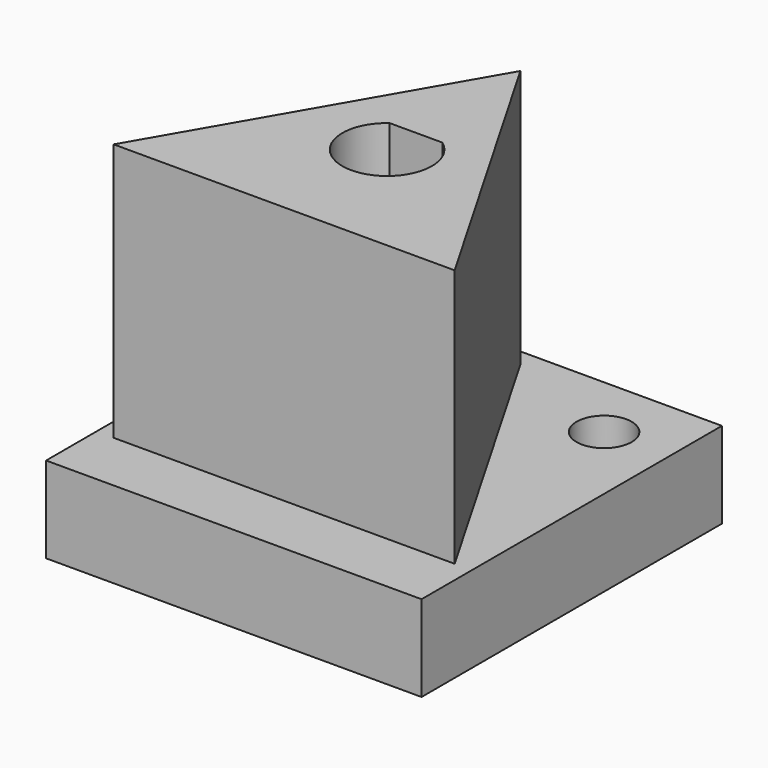
from build123d import *

# Parameters (mm, degrees)
SKETCH_W        = 21.8
SKETCH_H        = 21.8
PAD_DEPTH       = 5
PAD001_DEPTH    = 15
SKETCH002_R     = 1.6
POCKET_DEPTH    = 20.001
POCKET001_DEPTH = 3
POCKET002_DEPTH = 15


with BuildPart() as part:
    # Sketch → Pad (new body)
    with BuildSketch(Plane.XY):
        with Locations((10.9, 10.9)):
            Rectangle(SKETCH_W, SKETCH_H)
    extrude(amount=PAD_DEPTH)

    # Sketch001 (on Face6 of Pad) → Pad001 (join)
    with BuildSketch(Plane.XY.offset(5)):
        Polygon((1, 3.652697), (10.9, 20.8), (20.8, 3.652697), align=None)
    extrude(amount=PAD001_DEPTH)

    # Sketch002 (on Face4 of Pad001) → Pocket (cut, through all)
    with BuildSketch(Plane(origin=(0, 0, 0), x_dir=(1, 0, 0), z_dir=(0, 0, -1))):
        with Locations((4, -18)):
            Circle(SKETCH002_R)
        with Locations((18, -18)):
            Circle(SKETCH002_R)
    extrude(amount=-POCKET_DEPTH, mode=Mode.SUBTRACT)

    # Sketch003 (on Face4 of Pocket) → Pocket001 (cut)
    with BuildSketch(Plane(origin=(0, 0, 0), x_dir=(1, 0, 0), z_dir=(0, 0, -1))):
        Polygon((6.775, -19.602147), (6.775, -16.397853), (4, -14.795706), (1.225, -16.397853), (1.225, -19.602147), (4, -21.204294), align=None)
        Polygon((20.775, -19.602147), (20.775, -16.397853), (18, -14.795706), (15.225, -16.397853), (15.225, -19.602147), (18, -21.204294), align=None)
    extrude(amount=-POCKET001_DEPTH, mode=Mode.SUBTRACT)

    # Sketch004 (on Face26 of Pocket001) → Pocket002 (cut)
    with BuildSketch(Plane.XY.offset(20)):
        with BuildLine():
            ThreePointArc((9.467029, 13.1), (11, 8.4), (12.532971, 13.1))
            Line((9.467029, 13.1), (12.532971, 13.1))
        make_face()
    extrude(amount=-POCKET002_DEPTH, mode=Mode.SUBTRACT)


solid = part.part
